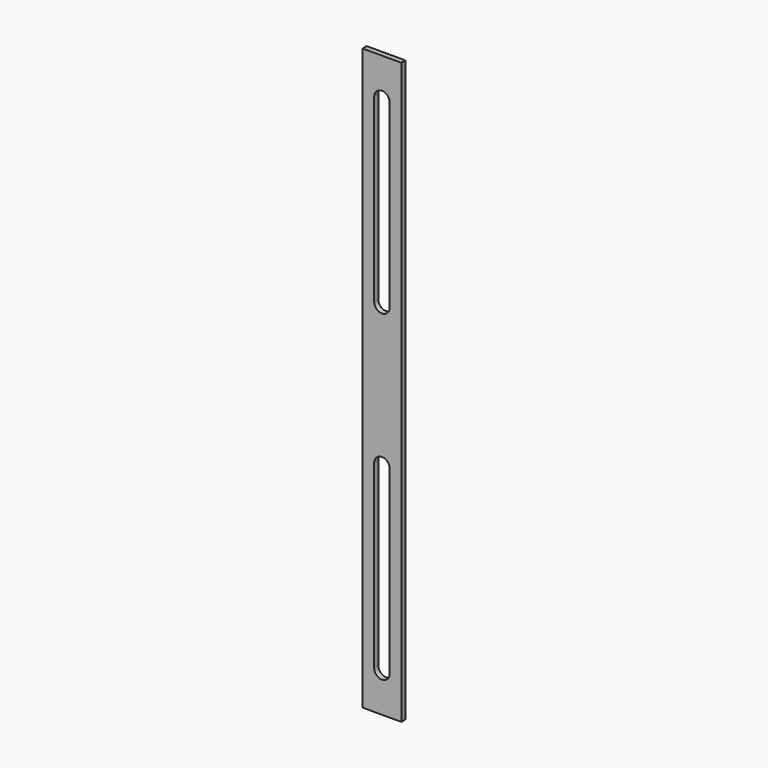
from build123d import *

# Parameters (mm, degrees)
F0_W     = 15
F0_H     = 225
F1_DEPTH = 2


with BuildPart() as f1:
    # F0 (on Front) → F1 (new body)
    with BuildSketch(Plane.XZ):
        with Locations((7.5, 112.5)):
            Rectangle(F0_W, F0_H)
        with BuildLine():
            Line((4.5, 15), (4.5, 85))
            ThreePointArc((4.5, 85), (7.5, 88), (10.5, 85))
            Line((10.5, 85), (10.5, 15))
            ThreePointArc((10.5, 15), (7.5, 12), (4.5, 15))
        make_face(mode=Mode.SUBTRACT)
        with BuildLine():
            ThreePointArc((4.5, 210), (7.5, 213), (10.5, 210))
            Line((10.5, 210), (10.5, 140))
            ThreePointArc((10.5, 140), (7.5, 137), (4.5, 140))
            Line((4.5, 140), (4.5, 210))
        make_face(mode=Mode.SUBTRACT)
    extrude(amount=F1_DEPTH)


solid = f1.part
